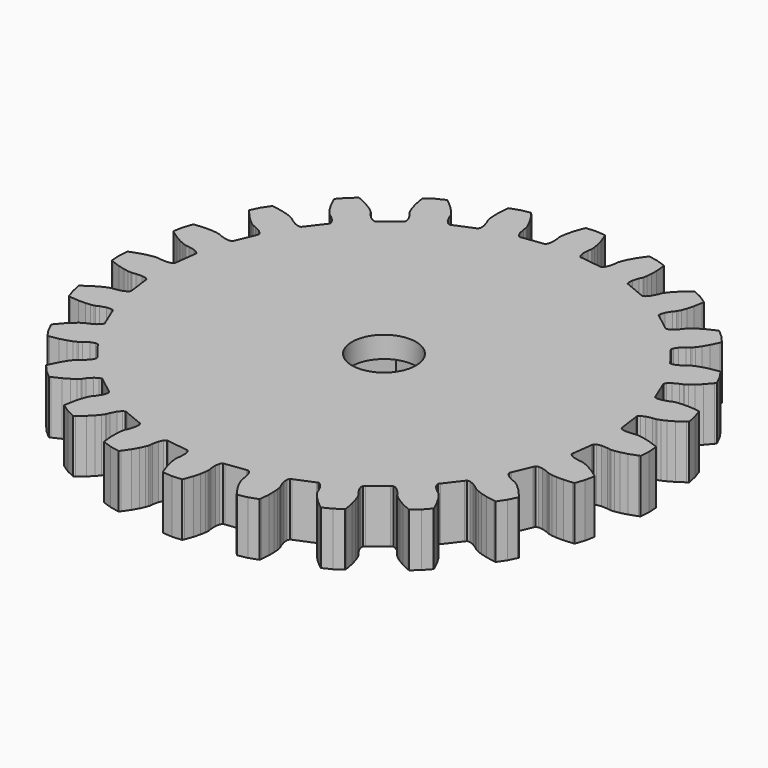
from build123d import *

# Parameters (mm, degrees)
F0_R     = 3
F1_DEPTH = 2
F2_DEPTH = 3


with BuildPart() as f1:
    # F0 (on Top) → F1 (new body)
    with BuildSketch(Plane.XY):
        Polygon((16.130194, -7.314372), (16.310113, -7.283577), (16.60122, -6.426004), (16.7779, -5.537769), (16.637484, -5.42114), (15.975577, -4.962598), (15.424474, -4.648092), (15.003115, -4.454176), (14.727147, -4.355296), (14.632122, -4.330344), (14.325119, -4.305035), (13.780073, -4.182366), (13.422271, -4.012659), (13.254434, -3.82762), (13.275191, -3.658955), (13.278758, -3.642864), (13.517638, -1.82839), (13.518357, -1.811924), (13.541962, -1.643634), (13.751971, -1.50834), (14.141505, -1.437021), (14.699727, -1.4596), (15.002821, -1.514612), (15.101066, -1.515104), (15.393222, -1.49102), (15.850412, -1.412766), (16.464137, -1.251613), (17.22217, -0.980009), (17.387988, -0.903697), (17.447219, 0), (17.387988, 0.903697), (17.22217, 0.980009), (16.464137, 1.251613), (15.850412, 1.412766), (15.393222, 1.49102), (15.101066, 1.515104), (15.002821, 1.514612), (14.699727, 1.4596), (14.141505, 1.437021), (13.751971, 1.50834), (13.541962, 1.643634), (13.518357, 1.811924), (13.517638, 1.82839), (13.278758, 3.642864), (13.275191, 3.658955), (13.254434, 3.82762), (13.422271, 4.012659), (13.780073, 4.182366), (14.325119, 4.305035), (14.632122, 4.330344), (14.727147, 4.355296), (15.003115, 4.454176), (15.424474, 4.648092), (15.975577, 4.962598), (16.637484, 5.42114), (16.7779, 5.537769), (16.60122, 6.426004), (16.310113, 7.283577), (16.130194, 7.314372), (15.327694, 7.380529), (14.693172, 7.377347), (14.231307, 7.334604), (13.942872, 7.282253), (13.848102, 7.256349), (13.569574, 7.124766), (13.036216, 6.958478), (12.641497, 6.926547), (12.403627, 7.002877), (12.33727, 7.159323), (12.332314, 7.175042), (11.631953, 8.865863), (11.624342, 8.880482), (11.56064, 9.038028), (11.674866, 9.260201), (11.976553, 9.516731), (12.471277, 9.776289), (12.76127, 9.880194), (12.846599, 9.92889), (13.087571, 10.095826), (13.444383, 10.392191), (13.895308, 10.838616), (14.415981, 11.452848), (14.521427, 11.601846), (14.120875, 12.414086), (13.617731, 13.167094), (13.435972, 13.150273), (12.643694, 13.006474), (12.031616, 12.839174), (11.596551, 12.678348), (11.331494, 12.553128), (11.246658, 12.503579), (11.011677, 12.30439), (10.539532, 12.005725), (10.166526, 11.872722), (9.917006, 11.884886), (9.812419, 12.018827), (9.803563, 12.032727), (8.68945, 13.484668), (8.678315, 13.496819), (8.576007, 13.632509), (8.628838, 13.876676), (8.853851, 14.202547), (9.264539, 14.581305), (9.517758, 14.756725), (9.587576, 14.825846), (9.777131, 15.049463), (10.04508, 15.428078), (10.365097, 15.976), (10.709053, 16.704063), (10.772343, 16.875275), (10.175216, 17.556168), (9.494323, 18.153295), (9.323111, 18.090005), (8.595048, 17.746049), (8.047126, 17.426032), (7.668511, 17.158083), (7.444894, 16.968528), (7.375773, 16.89871), (7.200353, 16.645491), (6.821595, 16.234803), (6.495724, 16.00979), (6.251557, 15.956959), (6.115867, 16.059267), (6.103716, 16.070402), (4.651775, 17.184515), (4.637875, 17.193371), (4.503934, 17.297958), (4.49177, 17.547478), (4.624773, 17.920484), (4.923438, 18.392629), (5.122627, 18.62761), (5.172176, 18.712446), (5.297396, 18.977503), (5.458222, 19.412568), (5.625522, 20.024646), (5.769321, 20.816924), (5.786142, 20.998683), (5.033134, 21.501827), (4.220894, 21.902379), (4.071896, 21.796933), (3.457664, 21.27626), (3.011239, 20.825335), (2.714874, 20.468523), (2.547938, 20.227551), (2.499242, 20.142222), (2.395337, 19.852229), (2.135779, 19.357505), (1.879249, 19.055818), (1.657076, 18.941592), (1.49953, 19.005294), (1.484911, 19.012905), (-0.20591, 19.713266), (-0.221629, 19.718222), (-0.378075, 19.784579), (-0.454405, 20.022449), (-0.422474, 20.417168), (-0.256186, 20.950526), (-0.124603, 21.229054), (-0.098699, 21.323824), (-0.046348, 21.612259), (-0.003605, 22.074124), (-0.000423, 22.708646), (-0.06658, 23.511146), (-0.097375, 23.691065), (-0.954948, 23.982172), (-1.843183, 24.158852), (-1.959812, 24.018436), (-2.418354, 23.356529), (-2.73286, 22.805426), (-2.926776, 22.384067), (-3.025656, 22.108099), (-3.050608, 22.013074), (-3.075917, 21.706071), (-3.198586, 21.161025), (-3.368293, 20.803223), (-3.553332, 20.635386), (-3.721997, 20.656143), (-3.738088, 20.65971), (-5.552562, 20.89859), (-5.569028, 20.899309), (-5.737318, 20.922914), (-5.872612, 21.132923), (-5.943931, 21.522457), (-5.921352, 22.080679), (-5.86634, 22.383773), (-5.865848, 22.482018), (-5.889932, 22.774174), (-5.968186, 23.231364), (-6.129339, 23.845089), (-6.400943, 24.603122), (-6.477255, 24.76894), (-7.380952, 24.828171), (-8.284649, 24.76894), (-8.360961, 24.603122), (-8.632565, 23.845089), (-8.793718, 23.231364), (-8.871972, 22.774174), (-8.896056, 22.482018), (-8.895564, 22.383773), (-8.840552, 22.080679), (-8.817973, 21.522457), (-8.889292, 21.132923), (-9.024586, 20.922914), (-9.192876, 20.899309), (-9.209342, 20.89859), (-11.023816, 20.65971), (-11.039907, 20.656143), (-11.208572, 20.635386), (-11.393611, 20.803223), (-11.563318, 21.161025), (-11.685987, 21.706071), (-11.711296, 22.013074), (-11.736248, 22.108099), (-11.835128, 22.384067), (-12.029044, 22.805426), (-12.34355, 23.356529), (-12.802092, 24.018436), (-12.918721, 24.158852), (-13.806956, 23.982172), (-14.664529, 23.691065), (-14.695324, 23.511146), (-14.761481, 22.708646), (-14.758299, 22.074124), (-14.715556, 21.612259), (-14.663205, 21.323824), (-14.637301, 21.229054), (-14.505718, 20.950526), (-14.33943, 20.417168), (-14.307499, 20.022449), (-14.383829, 19.784579), (-14.540275, 19.718222), (-14.555994, 19.713266), (-16.246815, 19.012905), (-16.261434, 19.005294), (-16.41898, 18.941592), (-16.641153, 19.055818), (-16.897683, 19.357505), (-17.157241, 19.852229), (-17.261146, 20.142222), (-17.309842, 20.227551), (-17.476778, 20.468523), (-17.773143, 20.825335), (-18.219568, 21.27626), (-18.8338, 21.796933), (-18.982798, 21.902379), (-19.795038, 21.501827), (-20.548046, 20.998683), (-20.531225, 20.816924), (-20.387426, 20.024646), (-20.220126, 19.412568), (-20.0593, 18.977503), (-19.93408, 18.712446), (-19.884531, 18.62761), (-19.685342, 18.392629), (-19.386677, 17.920484), (-19.253674, 17.547478), (-19.265838, 17.297958), (-19.399779, 17.193371), (-19.413679, 17.184515), (-20.86562, 16.070402), (-20.877771, 16.059267), (-21.013461, 15.956959), (-21.257628, 16.00979), (-21.583499, 16.234803), (-21.962257, 16.645491), (-22.137677, 16.89871), (-22.206798, 16.968528), (-22.430415, 17.158083), (-22.80903, 17.426032), (-23.356952, 17.746049), (-24.085015, 18.090005), (-24.256227, 18.153295), (-24.93712, 17.556168), (-25.534247, 16.875275), (-25.470957, 16.704063), (-25.127001, 15.976), (-24.806984, 15.428078), (-24.539035, 15.049463), (-24.34948, 14.825846), (-24.279662, 14.756725), (-24.026443, 14.581305), (-23.615755, 14.202547), (-23.390742, 13.876676), (-23.337911, 13.632509), (-23.440219, 13.496819), (-23.451354, 13.484668), (-24.565467, 12.032727), (-24.574323, 12.018827), (-24.67891, 11.884886), (-24.92843, 11.872722), (-25.301436, 12.005725), (-25.773581, 12.30439), (-26.008562, 12.503579), (-26.093398, 12.553128), (-26.358455, 12.678348), (-26.79352, 12.839174), (-27.405598, 13.006474), (-28.197876, 13.150273), (-28.379635, 13.167094), (-28.882779, 12.414086), (-29.283331, 11.601846), (-29.177885, 11.452848), (-28.657212, 10.838616), (-28.206287, 10.392191), (-27.849475, 10.095826), (-27.608503, 9.92889), (-27.523174, 9.880194), (-27.233181, 9.776289), (-26.738457, 9.516731), (-26.43677, 9.260201), (-26.322544, 9.038028), (-26.386246, 8.880482), (-26.393857, 8.865863), (-27.094218, 7.175042), (-27.099174, 7.159323), (-27.165531, 7.002877), (-27.403401, 6.926547), (-27.79812, 6.958478), (-28.331478, 7.124766), (-28.610006, 7.256349), (-28.704776, 7.282253), (-28.993211, 7.334604), (-29.455076, 7.377347), (-30.089598, 7.380529), (-30.892098, 7.314372), (-31.072017, 7.283577), (-31.363124, 6.426004), (-31.539804, 5.537769), (-31.399388, 5.42114), (-30.737481, 4.962598), (-30.186378, 4.648092), (-29.765019, 4.454176), (-29.489051, 4.355296), (-29.394026, 4.330344), (-29.087023, 4.305035), (-28.541977, 4.182366), (-28.184175, 4.012659), (-28.016338, 3.82762), (-28.037095, 3.658955), (-28.040662, 3.642864), (-28.279542, 1.82839), (-28.280261, 1.811924), (-28.303866, 1.643634), (-28.513875, 1.50834), (-28.903409, 1.437021), (-29.461631, 1.4596), (-29.764725, 1.514612), (-29.86297, 1.515104), (-30.155126, 1.49102), (-30.612316, 1.412766), (-31.226041, 1.251613), (-31.984074, 0.980009), (-32.149892, 0.903697), (-32.209123, 0), (-32.149892, -0.903697), (-31.984074, -0.980009), (-31.226041, -1.251613), (-30.612316, -1.412766), (-30.155126, -1.49102), (-29.86297, -1.515104), (-29.764725, -1.514612), (-29.461631, -1.4596), (-28.903409, -1.437021), (-28.513875, -1.50834), (-28.303866, -1.643634), (-28.280261, -1.811924), (-28.279542, -1.82839), (-28.040662, -3.642864), (-28.037095, -3.658955), (-28.016338, -3.82762), (-28.184175, -4.012659), (-28.541977, -4.182366), (-29.087023, -4.305035), (-29.394026, -4.330344), (-29.489051, -4.355296), (-29.765019, -4.454176), (-30.186378, -4.648092), (-30.737481, -4.962598), (-31.399388, -5.42114), (-31.539804, -5.537769), (-31.363124, -6.426004), (-31.072017, -7.283577), (-30.892098, -7.314372), (-30.089598, -7.380529), (-29.455076, -7.377347), (-28.993211, -7.334604), (-28.704776, -7.282253), (-28.610006, -7.256349), (-28.331478, -7.124766), (-27.79812, -6.958478), (-27.403401, -6.926547), (-27.165531, -7.002877), (-27.099174, -7.159323), (-27.094218, -7.175042), (-26.393857, -8.865863), (-26.386246, -8.880482), (-26.322544, -9.038028), (-26.43677, -9.260201), (-26.738457, -9.516731), (-27.233181, -9.776289), (-27.523174, -9.880194), (-27.608503, -9.92889), (-27.849475, -10.095826), (-28.206287, -10.392191), (-28.657212, -10.838616), (-29.177885, -11.452848), (-29.283331, -11.601846), (-28.882779, -12.414086), (-28.379635, -13.167094), (-28.197876, -13.150273), (-27.405598, -13.006474), (-26.79352, -12.839174), (-26.358455, -12.678348), (-26.093398, -12.553128), (-26.008562, -12.503579), (-25.773581, -12.30439), (-25.301436, -12.005725), (-24.92843, -11.872722), (-24.67891, -11.884886), (-24.574323, -12.018827), (-24.565467, -12.032727), (-23.451354, -13.484668), (-23.440219, -13.496819), (-23.337911, -13.632509), (-23.390742, -13.876676), (-23.615755, -14.202547), (-24.026443, -14.581305), (-24.279662, -14.756725), (-24.34948, -14.825846), (-24.539035, -15.049463), (-24.806984, -15.428078), (-25.127001, -15.976), (-25.470957, -16.704063), (-25.534247, -16.875275), (-24.93712, -17.556168), (-24.256227, -18.153295), (-24.085015, -18.090005), (-23.356952, -17.746049), (-22.80903, -17.426032), (-22.430415, -17.158083), (-22.206798, -16.968528), (-22.137677, -16.89871), (-21.962257, -16.645491), (-21.583499, -16.234803), (-21.257628, -16.00979), (-21.013461, -15.956959), (-20.877771, -16.059267), (-20.86562, -16.070402), (-19.413679, -17.184515), (-19.399779, -17.193371), (-19.265838, -17.297958), (-19.253674, -17.547478), (-19.386677, -17.920484), (-19.685342, -18.392629), (-19.884531, -18.62761), (-19.93408, -18.712446), (-20.0593, -18.977503), (-20.220126, -19.412568), (-20.387426, -20.024646), (-20.531225, -20.816924), (-20.548046, -20.998683), (-19.795038, -21.501827), (-18.982798, -21.902379), (-18.8338, -21.796933), (-18.219568, -21.27626), (-17.773143, -20.825335), (-17.476778, -20.468523), (-17.309842, -20.227551), (-17.261146, -20.142222), (-17.157241, -19.852229), (-16.897683, -19.357505), (-16.641153, -19.055818), (-16.41898, -18.941592), (-16.261434, -19.005294), (-16.246815, -19.012905), (-14.555994, -19.713266), (-14.540275, -19.718222), (-14.383829, -19.784579), (-14.307499, -20.022449), (-14.33943, -20.417168), (-14.505718, -20.950526), (-14.637301, -21.229054), (-14.663205, -21.323824), (-14.715556, -21.612259), (-14.758299, -22.074124), (-14.761481, -22.708646), (-14.695324, -23.511146), (-14.664529, -23.691065), (-13.806956, -23.982172), (-12.918721, -24.158852), (-12.802092, -24.018436), (-12.34355, -23.356529), (-12.029044, -22.805426), (-11.835128, -22.384067), (-11.736248, -22.108099), (-11.711296, -22.013074), (-11.685987, -21.706071), (-11.563318, -21.161025), (-11.393611, -20.803223), (-11.208572, -20.635386), (-11.039907, -20.656143), (-11.023816, -20.65971), (-9.209342, -20.89859), (-9.192876, -20.899309), (-9.024586, -20.922914), (-8.889292, -21.132923), (-8.817973, -21.522457), (-8.840552, -22.080679), (-8.895564, -22.383773), (-8.896056, -22.482018), (-8.871972, -22.774174), (-8.793718, -23.231364), (-8.632565, -23.845089), (-8.360961, -24.603122), (-8.284649, -24.76894), (-7.380952, -24.828171), (-6.477255, -24.76894), (-6.400943, -24.603122), (-6.129339, -23.845089), (-5.968186, -23.231364), (-5.889932, -22.774174), (-5.865848, -22.482018), (-5.86634, -22.383773), (-5.921352, -22.080679), (-5.943931, -21.522457), (-5.872612, -21.132923), (-5.737318, -20.922914), (-5.569028, -20.899309), (-5.552562, -20.89859), (-3.738088, -20.65971), (-3.721997, -20.656143), (-3.553332, -20.635386), (-3.368293, -20.803223), (-3.198586, -21.161025), (-3.075917, -21.706071), (-3.050608, -22.013074), (-3.025656, -22.108099), (-2.926776, -22.384067), (-2.73286, -22.805426), (-2.418354, -23.356529), (-1.959812, -24.018436), (-1.843183, -24.158852), (-0.954948, -23.982172), (-0.097375, -23.691065), (-0.06658, -23.511146), (-0.000423, -22.708646), (-0.003605, -22.074124), (-0.046348, -21.612259), (-0.098699, -21.323824), (-0.124603, -21.229054), (-0.256186, -20.950526), (-0.422474, -20.417168), (-0.454405, -20.022449), (-0.378075, -19.784579), (-0.221629, -19.718222), (-0.20591, -19.713266), (1.484911, -19.012905), (1.49953, -19.005294), (1.657076, -18.941592), (1.879249, -19.055818), (2.135779, -19.357505), (2.395337, -19.852229), (2.499242, -20.142222), (2.547938, -20.227551), (2.714874, -20.468523), (3.011239, -20.825335), (3.457664, -21.27626), (4.071896, -21.796933), (4.220894, -21.902379), (5.033134, -21.501827), (5.786142, -20.998683), (5.769321, -20.816924), (5.625522, -20.024646), (5.458222, -19.412568), (5.297396, -18.977503), (5.172176, -18.712446), (5.122627, -18.62761), (4.923438, -18.392629), (4.624773, -17.920484), (4.49177, -17.547478), (4.503934, -17.297958), (4.637875, -17.193371), (4.651775, -17.184515), (6.103716, -16.070402), (6.115867, -16.059267), (6.251557, -15.956959), (6.495724, -16.00979), (6.821595, -16.234803), (7.200353, -16.645491), (7.375773, -16.89871), (7.444894, -16.968528), (7.668511, -17.158083), (8.047126, -17.426032), (8.595048, -17.746049), (9.323111, -18.090005), (9.494323, -18.153295), (10.175216, -17.556168), (10.772343, -16.875275), (10.709053, -16.704063), (10.365097, -15.976), (10.04508, -15.428078), (9.777131, -15.049463), (9.587576, -14.825846), (9.517758, -14.756725), (9.264539, -14.581305), (8.853851, -14.202547), (8.628838, -13.876676), (8.576007, -13.632509), (8.678315, -13.496819), (8.68945, -13.484668), (9.803563, -12.032727), (9.812419, -12.018827), (9.917006, -11.884886), (10.166526, -11.872722), (10.539532, -12.005725), (11.011677, -12.30439), (11.246658, -12.503579), (11.331494, -12.553128), (11.596551, -12.678348), (12.031616, -12.839174), (12.643694, -13.006474), (13.435972, -13.150273), (13.617731, -13.167094), (14.120875, -12.414086), (14.521427, -11.601846), (14.415981, -11.452848), (13.895308, -10.838616), (13.444383, -10.392191), (13.087571, -10.095826), (12.846599, -9.92889), (12.76127, -9.880194), (12.471277, -9.776289), (11.976553, -9.516731), (11.674866, -9.260201), (11.56064, -9.038028), (11.624342, -8.880482), (11.631953, -8.865863), (12.332314, -7.175042), (12.33727, -7.159323), (12.403627, -7.002877), (12.641497, -6.926547), (13.036216, -6.958478), (13.569574, -7.124766), (13.848102, -7.256349), (13.942872, -7.282253), (14.231307, -7.334604), (14.693172, -7.377347), (15.327694, -7.380529), align=None)
        Polygon((-10.268086, 4.99978), (-4.494583, 5.00022), (-1.607451, 0.00044), (-4.493821, -4.99978), (-10.267323, -5.00022), (-13.154456, -0.000441), align=None, mode=Mode.SUBTRACT)
        Polygon((-1.607451, 0.00044), (-4.494583, 5.00022), (-10.268086, 4.99978), (-13.154456, -0.000441), (-10.267323, -5.00022), (-4.493821, -4.99978), align=None)
        with Locations((-7.380953, 0)):
            Circle(F0_R, mode=Mode.SUBTRACT)
    extrude(amount=F1_DEPTH)

    # F0 (on Top) → F2 (join)
    with BuildSketch(Plane.XY):
        Polygon((16.130194, -7.314372), (16.310113, -7.283577), (16.60122, -6.426004), (16.7779, -5.537769), (16.637484, -5.42114), (15.975577, -4.962598), (15.424474, -4.648092), (15.003115, -4.454176), (14.727147, -4.355296), (14.632122, -4.330344), (14.325119, -4.305035), (13.780073, -4.182366), (13.422271, -4.012659), (13.254434, -3.82762), (13.275191, -3.658955), (13.278758, -3.642864), (13.517638, -1.82839), (13.518357, -1.811924), (13.541962, -1.643634), (13.751971, -1.50834), (14.141505, -1.437021), (14.699727, -1.4596), (15.002821, -1.514612), (15.101066, -1.515104), (15.393222, -1.49102), (15.850412, -1.412766), (16.464137, -1.251613), (17.22217, -0.980009), (17.387988, -0.903697), (17.447219, 0), (17.387988, 0.903697), (17.22217, 0.980009), (16.464137, 1.251613), (15.850412, 1.412766), (15.393222, 1.49102), (15.101066, 1.515104), (15.002821, 1.514612), (14.699727, 1.4596), (14.141505, 1.437021), (13.751971, 1.50834), (13.541962, 1.643634), (13.518357, 1.811924), (13.517638, 1.82839), (13.278758, 3.642864), (13.275191, 3.658955), (13.254434, 3.82762), (13.422271, 4.012659), (13.780073, 4.182366), (14.325119, 4.305035), (14.632122, 4.330344), (14.727147, 4.355296), (15.003115, 4.454176), (15.424474, 4.648092), (15.975577, 4.962598), (16.637484, 5.42114), (16.7779, 5.537769), (16.60122, 6.426004), (16.310113, 7.283577), (16.130194, 7.314372), (15.327694, 7.380529), (14.693172, 7.377347), (14.231307, 7.334604), (13.942872, 7.282253), (13.848102, 7.256349), (13.569574, 7.124766), (13.036216, 6.958478), (12.641497, 6.926547), (12.403627, 7.002877), (12.33727, 7.159323), (12.332314, 7.175042), (11.631953, 8.865863), (11.624342, 8.880482), (11.56064, 9.038028), (11.674866, 9.260201), (11.976553, 9.516731), (12.471277, 9.776289), (12.76127, 9.880194), (12.846599, 9.92889), (13.087571, 10.095826), (13.444383, 10.392191), (13.895308, 10.838616), (14.415981, 11.452848), (14.521427, 11.601846), (14.120875, 12.414086), (13.617731, 13.167094), (13.435972, 13.150273), (12.643694, 13.006474), (12.031616, 12.839174), (11.596551, 12.678348), (11.331494, 12.553128), (11.246658, 12.503579), (11.011677, 12.30439), (10.539532, 12.005725), (10.166526, 11.872722), (9.917006, 11.884886), (9.812419, 12.018827), (9.803563, 12.032727), (8.68945, 13.484668), (8.678315, 13.496819), (8.576007, 13.632509), (8.628838, 13.876676), (8.853851, 14.202547), (9.264539, 14.581305), (9.517758, 14.756725), (9.587576, 14.825846), (9.777131, 15.049463), (10.04508, 15.428078), (10.365097, 15.976), (10.709053, 16.704063), (10.772343, 16.875275), (10.175216, 17.556168), (9.494323, 18.153295), (9.323111, 18.090005), (8.595048, 17.746049), (8.047126, 17.426032), (7.668511, 17.158083), (7.444894, 16.968528), (7.375773, 16.89871), (7.200353, 16.645491), (6.821595, 16.234803), (6.495724, 16.00979), (6.251557, 15.956959), (6.115867, 16.059267), (6.103716, 16.070402), (4.651775, 17.184515), (4.637875, 17.193371), (4.503934, 17.297958), (4.49177, 17.547478), (4.624773, 17.920484), (4.923438, 18.392629), (5.122627, 18.62761), (5.172176, 18.712446), (5.297396, 18.977503), (5.458222, 19.412568), (5.625522, 20.024646), (5.769321, 20.816924), (5.786142, 20.998683), (5.033134, 21.501827), (4.220894, 21.902379), (4.071896, 21.796933), (3.457664, 21.27626), (3.011239, 20.825335), (2.714874, 20.468523), (2.547938, 20.227551), (2.499242, 20.142222), (2.395337, 19.852229), (2.135779, 19.357505), (1.879249, 19.055818), (1.657076, 18.941592), (1.49953, 19.005294), (1.484911, 19.012905), (-0.20591, 19.713266), (-0.221629, 19.718222), (-0.378075, 19.784579), (-0.454405, 20.022449), (-0.422474, 20.417168), (-0.256186, 20.950526), (-0.124603, 21.229054), (-0.098699, 21.323824), (-0.046348, 21.612259), (-0.003605, 22.074124), (-0.000423, 22.708646), (-0.06658, 23.511146), (-0.097375, 23.691065), (-0.954948, 23.982172), (-1.843183, 24.158852), (-1.959812, 24.018436), (-2.418354, 23.356529), (-2.73286, 22.805426), (-2.926776, 22.384067), (-3.025656, 22.108099), (-3.050608, 22.013074), (-3.075917, 21.706071), (-3.198586, 21.161025), (-3.368293, 20.803223), (-3.553332, 20.635386), (-3.721997, 20.656143), (-3.738088, 20.65971), (-5.552562, 20.89859), (-5.569028, 20.899309), (-5.737318, 20.922914), (-5.872612, 21.132923), (-5.943931, 21.522457), (-5.921352, 22.080679), (-5.86634, 22.383773), (-5.865848, 22.482018), (-5.889932, 22.774174), (-5.968186, 23.231364), (-6.129339, 23.845089), (-6.400943, 24.603122), (-6.477255, 24.76894), (-7.380952, 24.828171), (-8.284649, 24.76894), (-8.360961, 24.603122), (-8.632565, 23.845089), (-8.793718, 23.231364), (-8.871972, 22.774174), (-8.896056, 22.482018), (-8.895564, 22.383773), (-8.840552, 22.080679), (-8.817973, 21.522457), (-8.889292, 21.132923), (-9.024586, 20.922914), (-9.192876, 20.899309), (-9.209342, 20.89859), (-11.023816, 20.65971), (-11.039907, 20.656143), (-11.208572, 20.635386), (-11.393611, 20.803223), (-11.563318, 21.161025), (-11.685987, 21.706071), (-11.711296, 22.013074), (-11.736248, 22.108099), (-11.835128, 22.384067), (-12.029044, 22.805426), (-12.34355, 23.356529), (-12.802092, 24.018436), (-12.918721, 24.158852), (-13.806956, 23.982172), (-14.664529, 23.691065), (-14.695324, 23.511146), (-14.761481, 22.708646), (-14.758299, 22.074124), (-14.715556, 21.612259), (-14.663205, 21.323824), (-14.637301, 21.229054), (-14.505718, 20.950526), (-14.33943, 20.417168), (-14.307499, 20.022449), (-14.383829, 19.784579), (-14.540275, 19.718222), (-14.555994, 19.713266), (-16.246815, 19.012905), (-16.261434, 19.005294), (-16.41898, 18.941592), (-16.641153, 19.055818), (-16.897683, 19.357505), (-17.157241, 19.852229), (-17.261146, 20.142222), (-17.309842, 20.227551), (-17.476778, 20.468523), (-17.773143, 20.825335), (-18.219568, 21.27626), (-18.8338, 21.796933), (-18.982798, 21.902379), (-19.795038, 21.501827), (-20.548046, 20.998683), (-20.531225, 20.816924), (-20.387426, 20.024646), (-20.220126, 19.412568), (-20.0593, 18.977503), (-19.93408, 18.712446), (-19.884531, 18.62761), (-19.685342, 18.392629), (-19.386677, 17.920484), (-19.253674, 17.547478), (-19.265838, 17.297958), (-19.399779, 17.193371), (-19.413679, 17.184515), (-20.86562, 16.070402), (-20.877771, 16.059267), (-21.013461, 15.956959), (-21.257628, 16.00979), (-21.583499, 16.234803), (-21.962257, 16.645491), (-22.137677, 16.89871), (-22.206798, 16.968528), (-22.430415, 17.158083), (-22.80903, 17.426032), (-23.356952, 17.746049), (-24.085015, 18.090005), (-24.256227, 18.153295), (-24.93712, 17.556168), (-25.534247, 16.875275), (-25.470957, 16.704063), (-25.127001, 15.976), (-24.806984, 15.428078), (-24.539035, 15.049463), (-24.34948, 14.825846), (-24.279662, 14.756725), (-24.026443, 14.581305), (-23.615755, 14.202547), (-23.390742, 13.876676), (-23.337911, 13.632509), (-23.440219, 13.496819), (-23.451354, 13.484668), (-24.565467, 12.032727), (-24.574323, 12.018827), (-24.67891, 11.884886), (-24.92843, 11.872722), (-25.301436, 12.005725), (-25.773581, 12.30439), (-26.008562, 12.503579), (-26.093398, 12.553128), (-26.358455, 12.678348), (-26.79352, 12.839174), (-27.405598, 13.006474), (-28.197876, 13.150273), (-28.379635, 13.167094), (-28.882779, 12.414086), (-29.283331, 11.601846), (-29.177885, 11.452848), (-28.657212, 10.838616), (-28.206287, 10.392191), (-27.849475, 10.095826), (-27.608503, 9.92889), (-27.523174, 9.880194), (-27.233181, 9.776289), (-26.738457, 9.516731), (-26.43677, 9.260201), (-26.322544, 9.038028), (-26.386246, 8.880482), (-26.393857, 8.865863), (-27.094218, 7.175042), (-27.099174, 7.159323), (-27.165531, 7.002877), (-27.403401, 6.926547), (-27.79812, 6.958478), (-28.331478, 7.124766), (-28.610006, 7.256349), (-28.704776, 7.282253), (-28.993211, 7.334604), (-29.455076, 7.377347), (-30.089598, 7.380529), (-30.892098, 7.314372), (-31.072017, 7.283577), (-31.363124, 6.426004), (-31.539804, 5.537769), (-31.399388, 5.42114), (-30.737481, 4.962598), (-30.186378, 4.648092), (-29.765019, 4.454176), (-29.489051, 4.355296), (-29.394026, 4.330344), (-29.087023, 4.305035), (-28.541977, 4.182366), (-28.184175, 4.012659), (-28.016338, 3.82762), (-28.037095, 3.658955), (-28.040662, 3.642864), (-28.279542, 1.82839), (-28.280261, 1.811924), (-28.303866, 1.643634), (-28.513875, 1.50834), (-28.903409, 1.437021), (-29.461631, 1.4596), (-29.764725, 1.514612), (-29.86297, 1.515104), (-30.155126, 1.49102), (-30.612316, 1.412766), (-31.226041, 1.251613), (-31.984074, 0.980009), (-32.149892, 0.903697), (-32.209123, 0), (-32.149892, -0.903697), (-31.984074, -0.980009), (-31.226041, -1.251613), (-30.612316, -1.412766), (-30.155126, -1.49102), (-29.86297, -1.515104), (-29.764725, -1.514612), (-29.461631, -1.4596), (-28.903409, -1.437021), (-28.513875, -1.50834), (-28.303866, -1.643634), (-28.280261, -1.811924), (-28.279542, -1.82839), (-28.040662, -3.642864), (-28.037095, -3.658955), (-28.016338, -3.82762), (-28.184175, -4.012659), (-28.541977, -4.182366), (-29.087023, -4.305035), (-29.394026, -4.330344), (-29.489051, -4.355296), (-29.765019, -4.454176), (-30.186378, -4.648092), (-30.737481, -4.962598), (-31.399388, -5.42114), (-31.539804, -5.537769), (-31.363124, -6.426004), (-31.072017, -7.283577), (-30.892098, -7.314372), (-30.089598, -7.380529), (-29.455076, -7.377347), (-28.993211, -7.334604), (-28.704776, -7.282253), (-28.610006, -7.256349), (-28.331478, -7.124766), (-27.79812, -6.958478), (-27.403401, -6.926547), (-27.165531, -7.002877), (-27.099174, -7.159323), (-27.094218, -7.175042), (-26.393857, -8.865863), (-26.386246, -8.880482), (-26.322544, -9.038028), (-26.43677, -9.260201), (-26.738457, -9.516731), (-27.233181, -9.776289), (-27.523174, -9.880194), (-27.608503, -9.92889), (-27.849475, -10.095826), (-28.206287, -10.392191), (-28.657212, -10.838616), (-29.177885, -11.452848), (-29.283331, -11.601846), (-28.882779, -12.414086), (-28.379635, -13.167094), (-28.197876, -13.150273), (-27.405598, -13.006474), (-26.79352, -12.839174), (-26.358455, -12.678348), (-26.093398, -12.553128), (-26.008562, -12.503579), (-25.773581, -12.30439), (-25.301436, -12.005725), (-24.92843, -11.872722), (-24.67891, -11.884886), (-24.574323, -12.018827), (-24.565467, -12.032727), (-23.451354, -13.484668), (-23.440219, -13.496819), (-23.337911, -13.632509), (-23.390742, -13.876676), (-23.615755, -14.202547), (-24.026443, -14.581305), (-24.279662, -14.756725), (-24.34948, -14.825846), (-24.539035, -15.049463), (-24.806984, -15.428078), (-25.127001, -15.976), (-25.470957, -16.704063), (-25.534247, -16.875275), (-24.93712, -17.556168), (-24.256227, -18.153295), (-24.085015, -18.090005), (-23.356952, -17.746049), (-22.80903, -17.426032), (-22.430415, -17.158083), (-22.206798, -16.968528), (-22.137677, -16.89871), (-21.962257, -16.645491), (-21.583499, -16.234803), (-21.257628, -16.00979), (-21.013461, -15.956959), (-20.877771, -16.059267), (-20.86562, -16.070402), (-19.413679, -17.184515), (-19.399779, -17.193371), (-19.265838, -17.297958), (-19.253674, -17.547478), (-19.386677, -17.920484), (-19.685342, -18.392629), (-19.884531, -18.62761), (-19.93408, -18.712446), (-20.0593, -18.977503), (-20.220126, -19.412568), (-20.387426, -20.024646), (-20.531225, -20.816924), (-20.548046, -20.998683), (-19.795038, -21.501827), (-18.982798, -21.902379), (-18.8338, -21.796933), (-18.219568, -21.27626), (-17.773143, -20.825335), (-17.476778, -20.468523), (-17.309842, -20.227551), (-17.261146, -20.142222), (-17.157241, -19.852229), (-16.897683, -19.357505), (-16.641153, -19.055818), (-16.41898, -18.941592), (-16.261434, -19.005294), (-16.246815, -19.012905), (-14.555994, -19.713266), (-14.540275, -19.718222), (-14.383829, -19.784579), (-14.307499, -20.022449), (-14.33943, -20.417168), (-14.505718, -20.950526), (-14.637301, -21.229054), (-14.663205, -21.323824), (-14.715556, -21.612259), (-14.758299, -22.074124), (-14.761481, -22.708646), (-14.695324, -23.511146), (-14.664529, -23.691065), (-13.806956, -23.982172), (-12.918721, -24.158852), (-12.802092, -24.018436), (-12.34355, -23.356529), (-12.029044, -22.805426), (-11.835128, -22.384067), (-11.736248, -22.108099), (-11.711296, -22.013074), (-11.685987, -21.706071), (-11.563318, -21.161025), (-11.393611, -20.803223), (-11.208572, -20.635386), (-11.039907, -20.656143), (-11.023816, -20.65971), (-9.209342, -20.89859), (-9.192876, -20.899309), (-9.024586, -20.922914), (-8.889292, -21.132923), (-8.817973, -21.522457), (-8.840552, -22.080679), (-8.895564, -22.383773), (-8.896056, -22.482018), (-8.871972, -22.774174), (-8.793718, -23.231364), (-8.632565, -23.845089), (-8.360961, -24.603122), (-8.284649, -24.76894), (-7.380952, -24.828171), (-6.477255, -24.76894), (-6.400943, -24.603122), (-6.129339, -23.845089), (-5.968186, -23.231364), (-5.889932, -22.774174), (-5.865848, -22.482018), (-5.86634, -22.383773), (-5.921352, -22.080679), (-5.943931, -21.522457), (-5.872612, -21.132923), (-5.737318, -20.922914), (-5.569028, -20.899309), (-5.552562, -20.89859), (-3.738088, -20.65971), (-3.721997, -20.656143), (-3.553332, -20.635386), (-3.368293, -20.803223), (-3.198586, -21.161025), (-3.075917, -21.706071), (-3.050608, -22.013074), (-3.025656, -22.108099), (-2.926776, -22.384067), (-2.73286, -22.805426), (-2.418354, -23.356529), (-1.959812, -24.018436), (-1.843183, -24.158852), (-0.954948, -23.982172), (-0.097375, -23.691065), (-0.06658, -23.511146), (-0.000423, -22.708646), (-0.003605, -22.074124), (-0.046348, -21.612259), (-0.098699, -21.323824), (-0.124603, -21.229054), (-0.256186, -20.950526), (-0.422474, -20.417168), (-0.454405, -20.022449), (-0.378075, -19.784579), (-0.221629, -19.718222), (-0.20591, -19.713266), (1.484911, -19.012905), (1.49953, -19.005294), (1.657076, -18.941592), (1.879249, -19.055818), (2.135779, -19.357505), (2.395337, -19.852229), (2.499242, -20.142222), (2.547938, -20.227551), (2.714874, -20.468523), (3.011239, -20.825335), (3.457664, -21.27626), (4.071896, -21.796933), (4.220894, -21.902379), (5.033134, -21.501827), (5.786142, -20.998683), (5.769321, -20.816924), (5.625522, -20.024646), (5.458222, -19.412568), (5.297396, -18.977503), (5.172176, -18.712446), (5.122627, -18.62761), (4.923438, -18.392629), (4.624773, -17.920484), (4.49177, -17.547478), (4.503934, -17.297958), (4.637875, -17.193371), (4.651775, -17.184515), (6.103716, -16.070402), (6.115867, -16.059267), (6.251557, -15.956959), (6.495724, -16.00979), (6.821595, -16.234803), (7.200353, -16.645491), (7.375773, -16.89871), (7.444894, -16.968528), (7.668511, -17.158083), (8.047126, -17.426032), (8.595048, -17.746049), (9.323111, -18.090005), (9.494323, -18.153295), (10.175216, -17.556168), (10.772343, -16.875275), (10.709053, -16.704063), (10.365097, -15.976), (10.04508, -15.428078), (9.777131, -15.049463), (9.587576, -14.825846), (9.517758, -14.756725), (9.264539, -14.581305), (8.853851, -14.202547), (8.628838, -13.876676), (8.576007, -13.632509), (8.678315, -13.496819), (8.68945, -13.484668), (9.803563, -12.032727), (9.812419, -12.018827), (9.917006, -11.884886), (10.166526, -11.872722), (10.539532, -12.005725), (11.011677, -12.30439), (11.246658, -12.503579), (11.331494, -12.553128), (11.596551, -12.678348), (12.031616, -12.839174), (12.643694, -13.006474), (13.435972, -13.150273), (13.617731, -13.167094), (14.120875, -12.414086), (14.521427, -11.601846), (14.415981, -11.452848), (13.895308, -10.838616), (13.444383, -10.392191), (13.087571, -10.095826), (12.846599, -9.92889), (12.76127, -9.880194), (12.471277, -9.776289), (11.976553, -9.516731), (11.674866, -9.260201), (11.56064, -9.038028), (11.624342, -8.880482), (11.631953, -8.865863), (12.332314, -7.175042), (12.33727, -7.159323), (12.403627, -7.002877), (12.641497, -6.926547), (13.036216, -6.958478), (13.569574, -7.124766), (13.848102, -7.256349), (13.942872, -7.282253), (14.231307, -7.334604), (14.693172, -7.377347), (15.327694, -7.380529), align=None)
        Polygon((-10.268086, 4.99978), (-4.494583, 5.00022), (-1.607451, 0.00044), (-4.493821, -4.99978), (-10.267323, -5.00022), (-13.154456, -0.000441), align=None, mode=Mode.SUBTRACT)
    extrude(amount=-F2_DEPTH)


solid = f1.part
